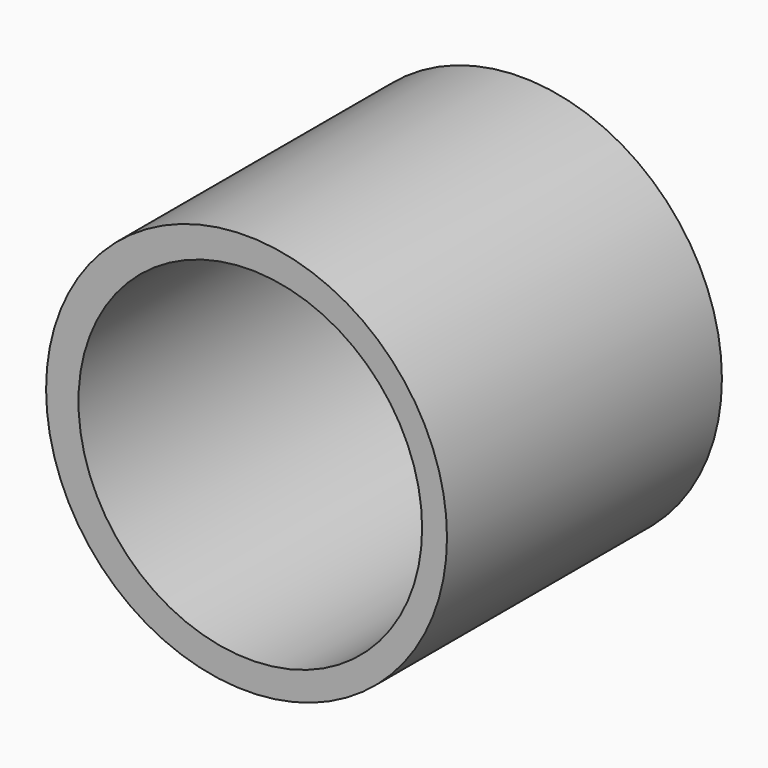
from build123d import *

# Parameters (mm, degrees)
F0_R     = 88.9
F0_R_2   = 76.2
F1_DEPTH = 76.2
F2_DEPTH = 25.4


with BuildPart() as f1:
    # F0 (on Front) → F1 (new body, symmetric)
    with BuildSketch(Plane.XZ):
        Circle(F0_R)
        with Locations((1.659194, 0)):
            Circle(F0_R_2, mode=Mode.SUBTRACT)
    extrude(amount=F1_DEPTH, both=True)

    # F0 (on Front) → F2 (join)
    with BuildSketch(Plane.XZ):
        Circle(F0_R)
        with Locations((1.659194, 0)):
            Circle(F0_R_2, mode=Mode.SUBTRACT)
    extrude(amount=F2_DEPTH)


solid = f1.part
